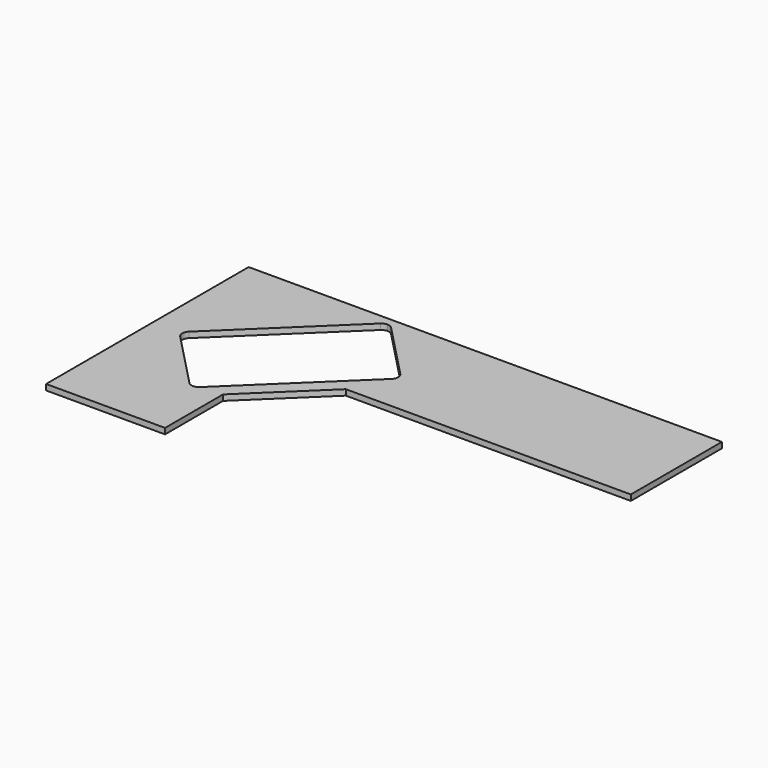
from build123d import *

# Parameters (mm, degrees)
F1_DEPTH = 28.575


with BuildPart() as f1:
    # F0 (on Top) → F1 (new body)
    with BuildSketch(Plane.XY):
        with BuildLine():
            Line((0, 0), (0, -1263.65))
            Line((0, -1263.65), (593.725, -1263.65))
            Line((593.725, -1263.65), (593.725, -901.7))
            Line((593.725, -901.7), (545.26526, -851.394174))
            Line((545.26526, -851.394174), (485.06666, -909.383652))
            ThreePointArc((485.06666, -909.383652), (457.922049, -920.037457), (431.194533, -908.376696))
            Line((431.194533, -908.376696), (158.057816, -624.83477))
            ThreePointArc((158.057816, -624.83477), (147.404011, -597.69016), (159.064771, -570.962644))
            Line((159.064771, -570.962644), (698.709081, -51.121794))
            ThreePointArc((698.709081, -51.121794), (710.561428, -43.361525), (724.429642, -40.467989))
            Line((724.429642, -40.467989), (724.429642, 0))
            Line((724.429642, 0), (0, 0))
        make_face()
        Polygon((545.26526, -851.394174), (593.725, -901.7), (939.8, -568.325), (891.34026, -518.019174), align=None)
        with BuildLine():
            Line((2362.2, 0), (724.429642, 0))
            Line((724.429642, 0), (724.429642, -40.467989))
            ThreePointArc((724.429642, -40.467989), (739.721906, -43.361525), (752.581208, -52.12875))
            Line((752.581208, -52.12875), (1025.717925, -335.670676))
            ThreePointArc((1025.717925, -335.670676), (1036.37173, -362.815286), (1024.71097, -389.542802))
            Line((1024.71097, -389.542802), (891.34026, -518.019174))
            Line((891.34026, -518.019174), (939.8, -568.325))
            Line((939.8, -568.325), (2362.2, -568.325))
            Line((2362.2, -568.325), (2362.2, 0))
        make_face()
    extrude(amount=F1_DEPTH)


solid = f1.part
